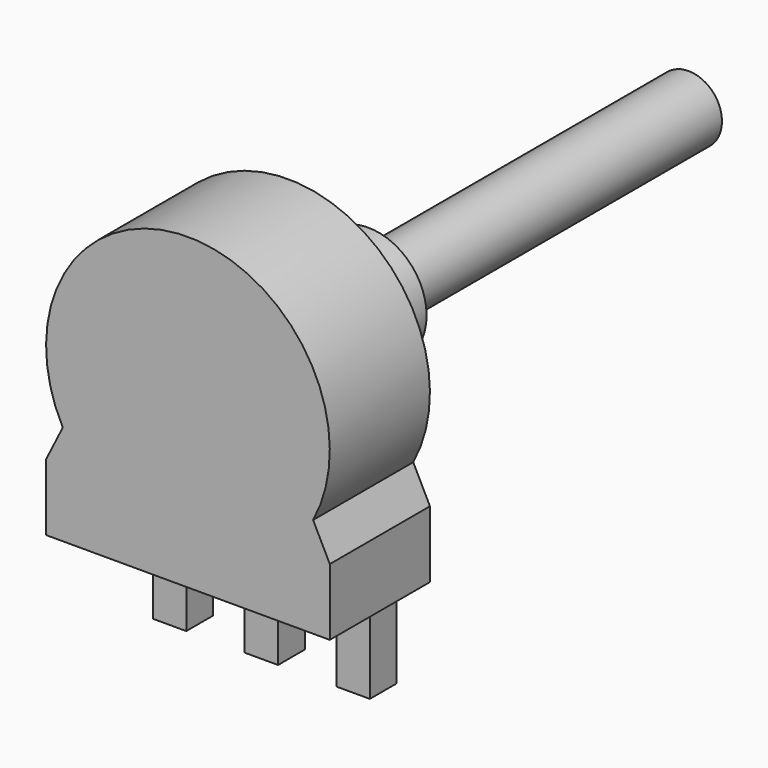
from build123d import *

# Parameters (mm, degrees)
F1_DEPTH = 7.5
F0_W     = 2
F0_H     = 6
F2_DEPTH = 2
F3_R     = 3.5
F4_DEPTH = 6
F5_R     = 2
F6_DEPTH = 24


with BuildPart() as f1:
    # F0 (on Front) → F1 (new body)
    with BuildSketch(Plane.XZ):
        with BuildLine():
            Line((-7.5, -4), (7.5, -4))
            ThreePointArc((7.5, -4), (0, 8.5), (-7.5, -4))
        make_face()
        Polygon((8.5, -6), (7.5, -4), (-7.5, -4), (-8.5, -6), (-8.5, -10), (-6.5, -10), (-4.5, -10), (-1, -10), (0, -10), (1, -10), (4.5, -10), (6.5, -10), (8.5, -10), align=None)
    extrude(amount=F1_DEPTH)

    # F0 (on Front) → F2 (join)
    with BuildSketch(Plane.XZ):
        with Locations((-5.5, -13)):
            Rectangle(F0_W, F0_H)
        Polygon((1, -16), (1, -10), (0, -10), (-1, -10), (-1, -16), align=None)
        with Locations((5.5, -13)):
            Rectangle(F0_W, F0_H)
    extrude(amount=F2_DEPTH)

    # F3 (on face) → F4 (join)
    with BuildSketch(Plane.XZ):
        Circle(F3_R)
    extrude(amount=-F4_DEPTH)

    # F5 (on face) → F6 (join)
    with BuildSketch(Plane(origin=(0, 6, 0), x_dir=(-1, 0, 0), z_dir=(0, 1, 0))):
        Circle(F5_R)
    extrude(amount=F6_DEPTH)


solid = f1.part
